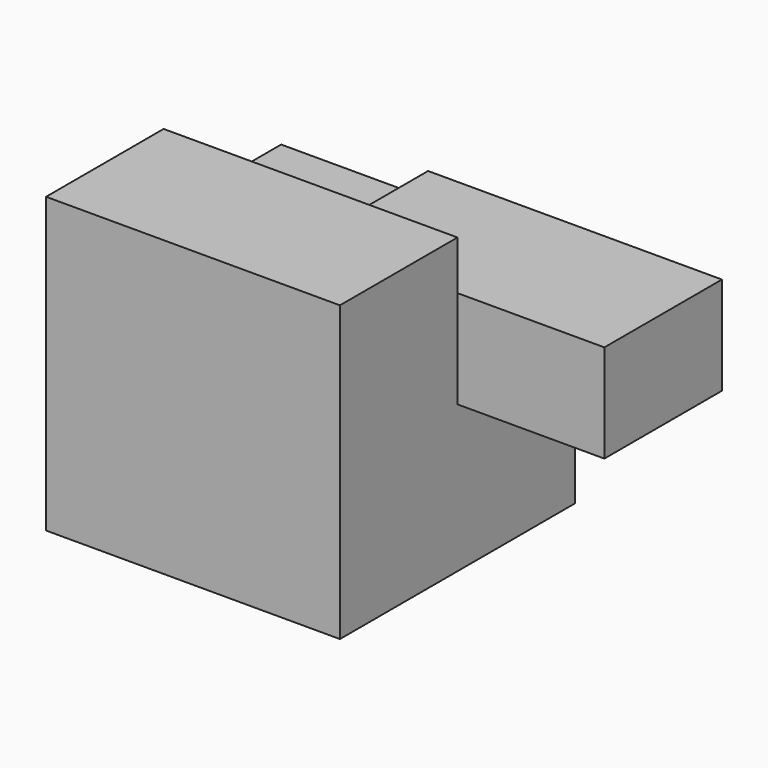
from build123d import *

# Parameters (mm, degrees)
F0_W     = 76.2
F0_H     = 76.2
F1_DEPTH = 38.1
F2_W     = 19.05
F2_H     = 19.05
F3_DEPTH = 38.1
F4_W     = 76.2
F4_H     = 38.1
F5_DEPTH = 19.05
F6_W     = 76.2
F6_H     = 38.1
F7_DEPTH = 25.4


with BuildPart() as f1:
    # F0 (on Top) → F1 (new body, symmetric)
    with BuildSketch(Plane.XY):
        Rectangle(F0_W, F0_H)
    extrude(amount=F1_DEPTH, both=True)

    # F2 (on Right) → F3 (cut)
    with BuildSketch(Plane.YZ):
        with Locations((19.05, 19.05)):
            Rectangle(F2_W, F2_H)
    extrude(amount=-F3_DEPTH, mode=Mode.SUBTRACT)

    # F4 (on face) → F5 (cut)
    with BuildSketch(Plane.XY.offset(38.1)):
        with Locations((0, 19.05)):
            Rectangle(F4_W, F4_H)
    extrude(amount=-F5_DEPTH, mode=Mode.SUBTRACT)

    # F6 (on Top) → F7 (join)
    with BuildSketch(Plane.XY):
        with Locations((38.1, 19.05)):
            Rectangle(F6_W, F6_H)
    extrude(amount=F7_DEPTH)


solid = f1.part
